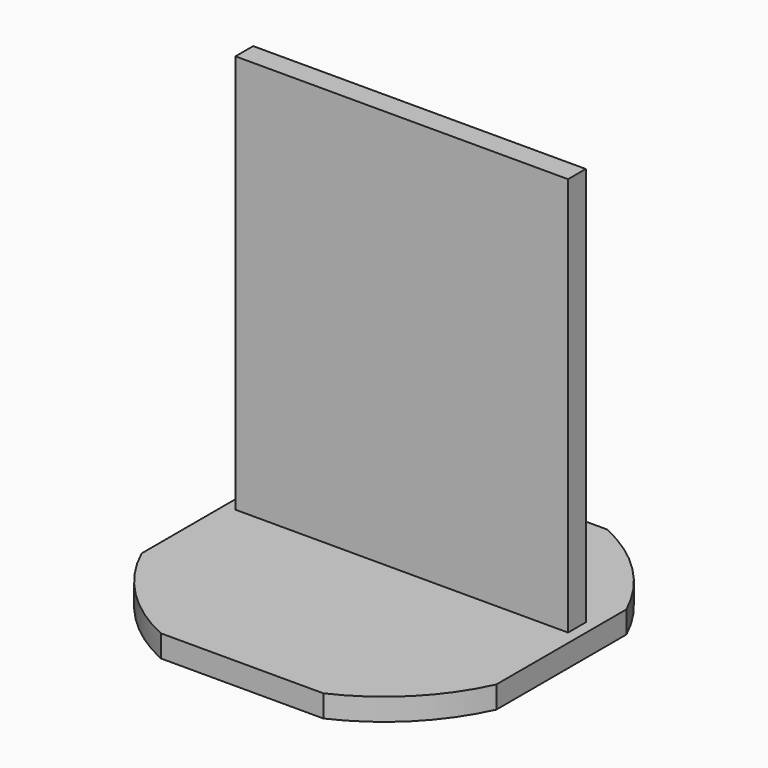
from build123d import *

# Parameters (mm, degrees)
F1_DEPTH = 50
F2_W     = 750
F2_H     = 50
F3_DEPTH = 900


with BuildPart() as f1:
    # F0 (on Top) → F1 (new body)
    with BuildSketch(Plane.XY):
        with BuildLine():
            ThreePointArc((400, 183.3030277982), (311.1269837221, 311.1269837221), (183.3030277982, 400))
            Line((183.3030277982, 400), (-183.3030277982, 400))
            ThreePointArc((-183.3030277982, 400), (-311.1269837221, 311.1269837221), (-400, 183.3030277982))
            Line((-400, 183.3030277982), (-400, -183.3030277982))
            ThreePointArc((-400, -183.3030277982), (-311.1269837221, -311.1269837221), (-183.3030277982, -400))
            Line((-183.3030277982, -400), (183.3030277982, -400))
            ThreePointArc((183.3030277982, -400), (311.1269837221, -311.1269837221), (400, -183.3030277982))
            Line((400, -183.3030277982), (400, 183.3030277982))
        make_face()
    extrude(amount=F1_DEPTH)


with BuildPart() as f3:
    # F2 (on face) → F3 (new body)
    with BuildSketch(Plane.XY.offset(50)):
        with Locations((0, 75)):
            Rectangle(F2_W, F2_H)
    extrude(amount=F3_DEPTH)


solid = Compound([f1.part, f3.part])
